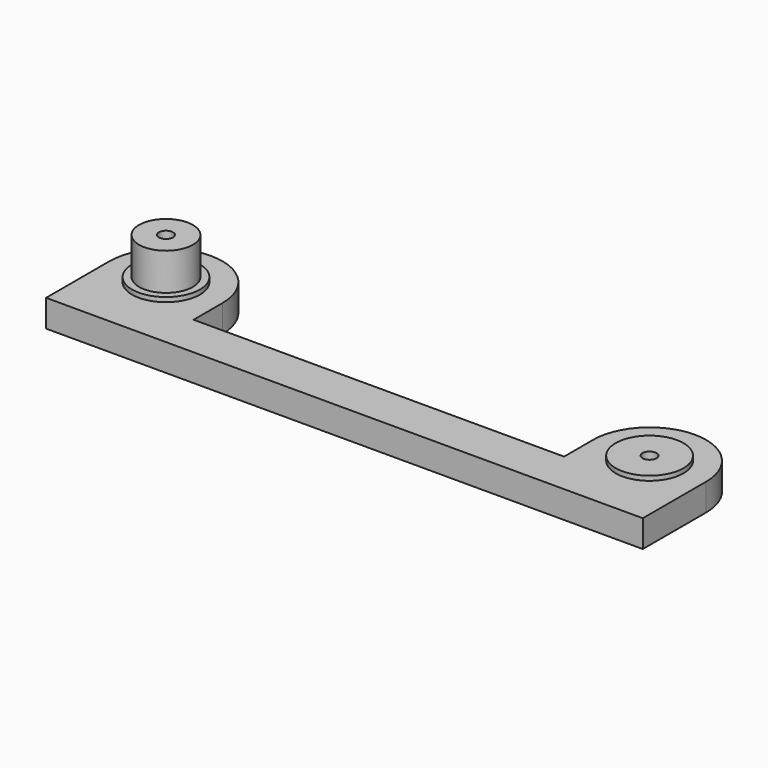
from build123d import *

# Parameters (mm, degrees)
F2_DEPTH  = 6
F3_R      = 7.5
F4_DEPTH  = 1
F5_R      = 5.95
F6_DEPTH  = 8.2
F7_R      = 1.55
F8_DEPTH  = 15.201
F9_R      = 3.75
F10_DEPTH = 3


with BuildPart() as f2:
    # F1 (on Top) → F2 (new body)
    with BuildSketch(Plane.XY):
        with BuildLine():
            Line((-40.941557, -103), (-40.941557, -95))
            ThreePointArc((-40.941557, -95), (-53.441557, -82.5), (-65.941557, -95))
            Line((-65.941557, -95), (-65.941557, -112.5))
            Line((-65.941557, -112.5), (0, -112.5))
            Line((0, -112.5), (65.941557, -112.5))
            Line((65.941557, -112.5), (65.941557, -95))
            ThreePointArc((65.941557, -95), (53.441557, -82.5), (40.941557, -95))
            Line((40.941557, -95), (40.941557, -103))
            Line((40.941557, -103), (0, -103))
            Line((0, -103), (-40.941557, -103))
        make_face()
    extrude(amount=F2_DEPTH)

    # F3 (on face) → F4 (join)
    with BuildSketch(Plane.XY.offset(6)):
        with Locations((-53.441557, -95)):
            Circle(F3_R)
        with Locations((53.441557, -95)):
            Circle(F3_R)
    extrude(amount=F4_DEPTH)

    # F5 (on face) → F6 (join)
    with BuildSketch(Plane.XY.offset(7)):
        with Locations((-53.441557, -95)):
            Circle(F5_R)
    extrude(amount=F6_DEPTH)

    # F7 (on face) → F8 (cut, through all)
    with BuildSketch(Plane.XY):
        with Locations((-53.441557, -95)):
            Circle(F7_R)
        with Locations((53.441557, -95)):
            Circle(F7_R)
    extrude(amount=F8_DEPTH, mode=Mode.SUBTRACT)

    # F9 (on face) → F10 (cut)
    with BuildSketch(Plane.XY):
        with Locations((-53.441557, -95)):
            Circle(F9_R)
        with Locations((53.441557, -95)):
            Circle(F9_R)
    extrude(amount=F10_DEPTH, mode=Mode.SUBTRACT)


solid = f2.part
